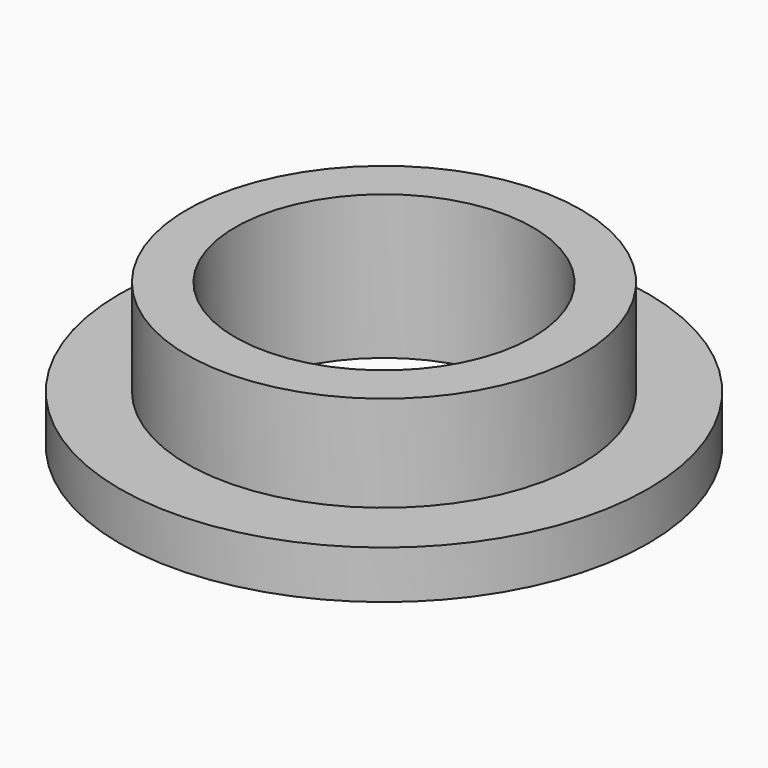
from build123d import *

# Parameters (mm, degrees)
SKETCH_R     = 5.5
PAD_DEPTH    = 1
SKETCH001_R  = 4.1
PAD001_DEPTH = 3
SKETCH002_R  = 3.1
POCKET_DEPTH = 3.001


with BuildPart() as part:
    # Sketch → Pad (new body)
    with BuildSketch(Plane.XY):
        Circle(SKETCH_R)
    extrude(amount=PAD_DEPTH)

    # Sketch001 → Pad001 (join)
    with BuildSketch(Plane.XY):
        Circle(SKETCH001_R)
    extrude(amount=PAD001_DEPTH)

    # Sketch002 → Pocket (cut, through all)
    with BuildSketch(Plane.XY):
        Circle(SKETCH002_R)
    extrude(amount=POCKET_DEPTH, mode=Mode.SUBTRACT)


solid = part.part
